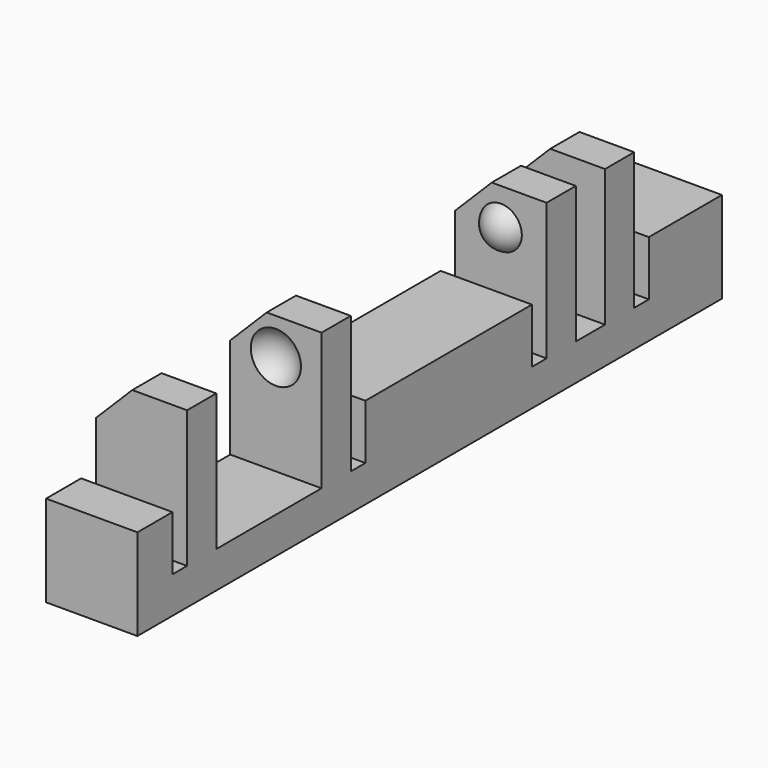
from build123d import *

# Parameters (mm, degrees)
BOX155_W               = 13
BOX155_H               = 40
BOX155_DEPTH           = 10
BOX155_PLACEMENT_ANGLE = 45
BOX163_W               = 12
BOX163_H               = 44
BOX163_DEPTH           = 10
BOX162_W               = 20
BOX162_H               = 44
BOX162_DEPTH           = 10
BOX158_W               = 4
BOX158_H               = 1
BOX158_DEPTH           = 7
BOX160_W               = 4
BOX160_H               = 1
BOX160_DEPTH           = 7
BOX157_W               = 4
BOX157_H               = 2
BOX157_DEPTH           = 7
BOX159_W               = 4
BOX159_H               = 1
BOX159_DEPTH           = 7
BOX156_W               = 4
BOX156_H               = 1
BOX156_DEPTH           = 7
BOX161_W               = 4
BOX161_H               = 7.2
BOX161_DEPTH           = 7
BOX151_W               = 10
BOX151_H               = 2
BOX151_DEPTH           = 7
BOX152_W               = 10
BOX152_H               = 2
BOX152_DEPTH           = 7
BOX153_W               = 10
BOX153_H               = 2
BOX153_DEPTH           = 7
BOX154_W               = 10
BOX154_H               = 2
BOX154_DEPTH           = 7
BOX150_W               = 5
BOX150_H               = 40
BOX150_DEPTH           = 7
CUT064_PITCH_ANGLE     = 90
CUT064_PLACEMENT_ANGLE = -180


with BuildPart() as chamfer_cube001:
    # Box155 → Box155 (new body)
    with BuildSketch(Plane.XY):
        with Locations((6.5, 20)):
            Rectangle(BOX155_W, BOX155_H)
    extrude(amount=BOX155_DEPTH)


with BuildPart() as chamfer_cube001_1:
    # Box155 placement: moved
    add(chamfer_cube001.part.moved(Location((-11.69, 0, -1.19))).rotate(Axis((-11.69, 0, -1.19), (0, -1, 0)), BOX155_PLACEMENT_ANGLE))


with BuildPart() as re_level_edge_clip_block003:
    # Box163 → Box163 (new body)
    with BuildSketch(Plane(origin=(-21.5, -2, -7), x_dir=(1, 0, 0), z_dir=(0, 0, 1))):
        with Locations((6, 22)):
            Rectangle(BOX163_W, BOX163_H)
    extrude(amount=BOX163_DEPTH)


with BuildPart() as re_level_edge_clip_block002:
    # Box162 → Box162 (new body)
    with BuildSketch(Plane(origin=(-19, -2, 3), x_dir=(1, 0, 0), z_dir=(0, 0, 1))):
        with Locations((10, 22)):
            Rectangle(BOX162_W, BOX162_H)
    extrude(amount=BOX162_DEPTH)


with BuildPart() as cube140:
    # Box158 → Box158 (new body)
    with BuildSketch(Plane(origin=(-6, 12, -2), x_dir=(1, 0, 0), z_dir=(0, 0, 1))):
        with Locations((2, 0.5)):
            Rectangle(BOX158_W, BOX158_H)
    extrude(amount=BOX158_DEPTH)


with BuildPart() as cube142:
    # Box160 → Box160 (new body)
    with BuildSketch(Plane(origin=(-6, 36.6, -2), x_dir=(1, 0, 0), z_dir=(0, 0, 1))):
        with Locations((2, 0.5)):
            Rectangle(BOX160_W, BOX160_H)
    extrude(amount=BOX160_DEPTH)


with BuildPart() as cube139:
    # Box157 → Box157 (new body)
    with BuildSketch(Plane(origin=(-6, 8, -2), x_dir=(1, 0, 0), z_dir=(0, 0, 1))):
        with Locations((2, 1)):
            Rectangle(BOX157_W, BOX157_H)
    extrude(amount=BOX157_DEPTH)


with BuildPart() as cube141:
    # Box159 → Box159 (new body)
    with BuildSketch(Plane(origin=(-6, 24.4, -2), x_dir=(1, 0, 0), z_dir=(0, 0, 1))):
        with Locations((2, 0.5)):
            Rectangle(BOX159_W, BOX159_H)
    extrude(amount=BOX159_DEPTH)


with BuildPart() as cube138:
    # Box156 → Box156 (new body)
    with BuildSketch(Plane(origin=(-6, 5, -2), x_dir=(1, 0, 0), z_dir=(0, 0, 1))):
        with Locations((2, 0.5)):
            Rectangle(BOX156_W, BOX156_H)
    extrude(amount=BOX156_DEPTH)


with BuildPart() as extra_holes_for_clips001:
    # Box161 → Box161 (new body)
    with BuildSketch(Plane(origin=(-6, 27.4, -2), x_dir=(1, 0, 0), z_dir=(0, 0, 1))):
        with Locations((2, 3.6)):
            Rectangle(BOX161_W, BOX161_H)
    extrude(amount=BOX161_DEPTH)

    # Fusion056: union Cube140, Cube142, Cube139, Cube141, Cube138
    add(cube140.part)
    add(cube142.part)
    add(cube139.part)
    add(cube141.part)
    add(cube138.part)


with BuildPart() as sphere054:
    # Sphere054 → Sphere054 (revolve)
    with BuildSketch(Plane(origin=(-7.5, 34, 0.5), x_dir=(1, 0, 0), z_dir=(0, -1, 0))):
        with BuildLine():
            ThreePointArc((0, -1.5), (1.5, 0), (0, 1.5))
            Line((0, 1.5), (0, -1.5))
        make_face()
    revolve(axis=Axis((-7.5, 34, 0.5), (0, 0, 1)))


with BuildPart() as holes001:
    # Sphere053 → Sphere053 (revolve)
    with BuildSketch(Plane(origin=(-7.5, 28, 0.5), x_dir=(1, 0, 0), z_dir=(0, -1, 0))):
        with BuildLine():
            ThreePointArc((0, -1.5), (1.5, 0), (0, 1.5))
            Line((0, 1.5), (0, -1.5))
        make_face()
    revolve(axis=Axis((-7.5, 28, 0.5), (0, 0, 1)))

    # Fusion058: union Sphere054
    add(sphere054.part)


with BuildPart() as cube134:
    # Box151 → Box151 (new body)
    with BuildSketch(Plane(origin=(-15, 6, -2), x_dir=(1, 0, 0), z_dir=(0, 0, 1))):
        with Locations((5, 1)):
            Rectangle(BOX151_W, BOX151_H)
    extrude(amount=BOX151_DEPTH)


with BuildPart() as cube135:
    # Box152 → Box152 (new body)
    with BuildSketch(Plane(origin=(-15, 10, -2), x_dir=(1, 0, 0), z_dir=(0, 0, 1))):
        with Locations((5, 1)):
            Rectangle(BOX152_W, BOX152_H)
    extrude(amount=BOX152_DEPTH)


with BuildPart() as cube136:
    # Box153 → Box153 (new body)
    with BuildSketch(Plane(origin=(-15, 25.4, -2), x_dir=(1, 0, 0), z_dir=(0, 0, 1))):
        with Locations((5, 1)):
            Rectangle(BOX153_W, BOX153_H)
    extrude(amount=BOX153_DEPTH)


with BuildPart() as cube137:
    # Box154 → Box154 (new body)
    with BuildSketch(Plane(origin=(-15, 34.6, -2), x_dir=(1, 0, 0), z_dir=(0, 0, 1))):
        with Locations((5, 1)):
            Rectangle(BOX154_W, BOX154_H)
    extrude(amount=BOX154_DEPTH)


with BuildPart() as fusion059:
    # Box150 → Box150 (new body)
    with BuildSketch(Plane(origin=(-5, 0, -2), x_dir=(1, 0, 0), z_dir=(0, 0, 1))):
        with Locations((2.5, 20)):
            Rectangle(BOX150_W, BOX150_H)
    extrude(amount=BOX150_DEPTH)

    # Fusion059: union Cube134, Cube135, Cube136, Cube137
    add(cube134.part)
    add(cube135.part)
    add(cube136.part)
    add(cube137.part)


with BuildPart() as sphere052:
    # Sphere052 → Sphere052 (revolve)
    with BuildSketch(Plane(origin=(-7.5, 11.5, 0.5), x_dir=(1, 0, 0), z_dir=(0, -1, 0))):
        with BuildLine():
            ThreePointArc((0, -1.25), (1.25, 0), (0, 1.25))
            Line((0, 1.25), (0, -1.25))
        make_face()
    revolve(axis=Axis((-7.5, 11.5, 0.5), (0, 0, 1)))


with BuildPart() as copy_edge_clip:
    # Sphere051 → Sphere051 (revolve)
    with BuildSketch(Plane(origin=(-7.5, 6.5, 0.5), x_dir=(1, 0, 0), z_dir=(0, -1, 0))):
        with BuildLine():
            ThreePointArc((0, -1.25), (1.25, 0), (0, 1.25))
            Line((0, 1.25), (0, -1.25))
        make_face()
    revolve(axis=Axis((-7.5, 6.5, 0.5), (0, 0, 1)))

    # Fusion057: union Sphere052
    add(sphere052.part)

    # Fusion060: union Fusion059
    add(fusion059.part)

    # Cut060: cut Holes001
    add(holes001.part, mode=Mode.SUBTRACT)

    # Cut061: cut Extra Holes for Clips001
    add(extra_holes_for_clips001.part, mode=Mode.SUBTRACT)

    # Cut062: cut Re-level Edge Clip Block002
    add(re_level_edge_clip_block002.part, mode=Mode.SUBTRACT)

    # Cut063: cut Re-level Edge Clip Block003
    add(re_level_edge_clip_block003.part, mode=Mode.SUBTRACT)

    # Cut064: cut Chamfer Cube001
    add(chamfer_cube001_1.part, mode=Mode.SUBTRACT)


with BuildPart() as copy_edge_clip_1:
    # Cut064 pitch: moved
    add(copy_edge_clip.part.rotate(Axis((0, 0, 0), (0, 1, 0)), CUT064_PITCH_ANGLE))


with BuildPart() as copy_edge_clip_2:
    # Cut064 placement: moved
    add(copy_edge_clip_1.part.moved(Location((-27, 20, -7))).rotate(Axis((-27, 20, -7), (0, 0, 1)), CUT064_PLACEMENT_ANGLE))


solid = copy_edge_clip_2.part
